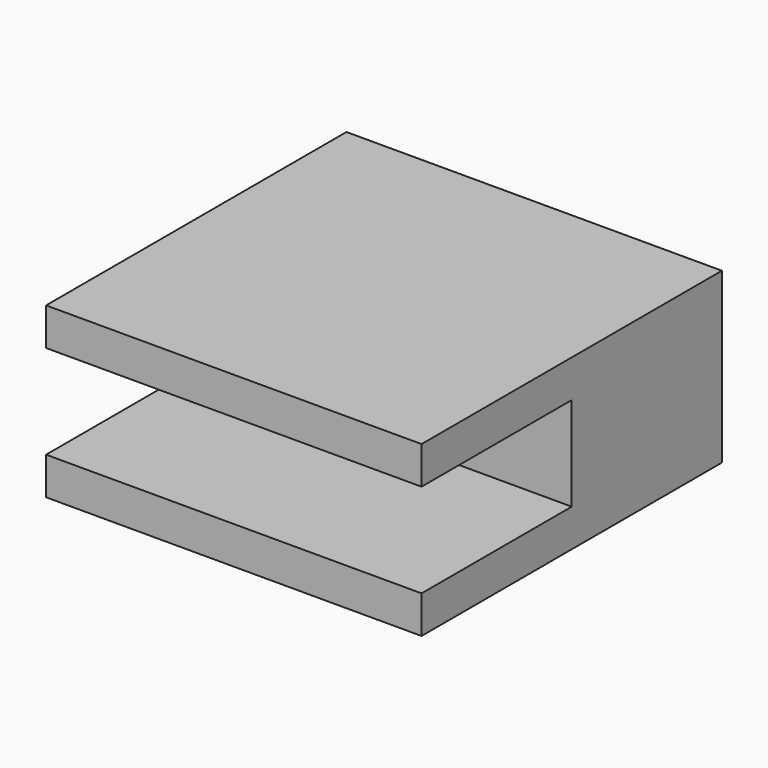
from build123d import *

# Parameters (mm, degrees)
BOX001_W     = 22
BOX001_H     = 11
BOX001_DEPTH = 5
BOX_W        = 20
BOX_H        = 20
BOX_DEPTH    = 9


with BuildPart() as cube001:
    # Box001 → Box001 (new body)
    with BuildSketch(Plane(origin=(-1, -1, 2), x_dir=(1, 0, 0), z_dir=(0, 0, 1))):
        with Locations((11, 5.5)):
            Rectangle(BOX001_W, BOX001_H)
    extrude(amount=BOX001_DEPTH)


with BuildPart() as cut:
    # Box → Box (new body)
    with BuildSketch(Plane.XY):
        with Locations((10, 10)):
            Rectangle(BOX_W, BOX_H)
    extrude(amount=BOX_DEPTH)

    # Cut: cut Cube001
    add(cube001.part, mode=Mode.SUBTRACT)


solid = cut.part
